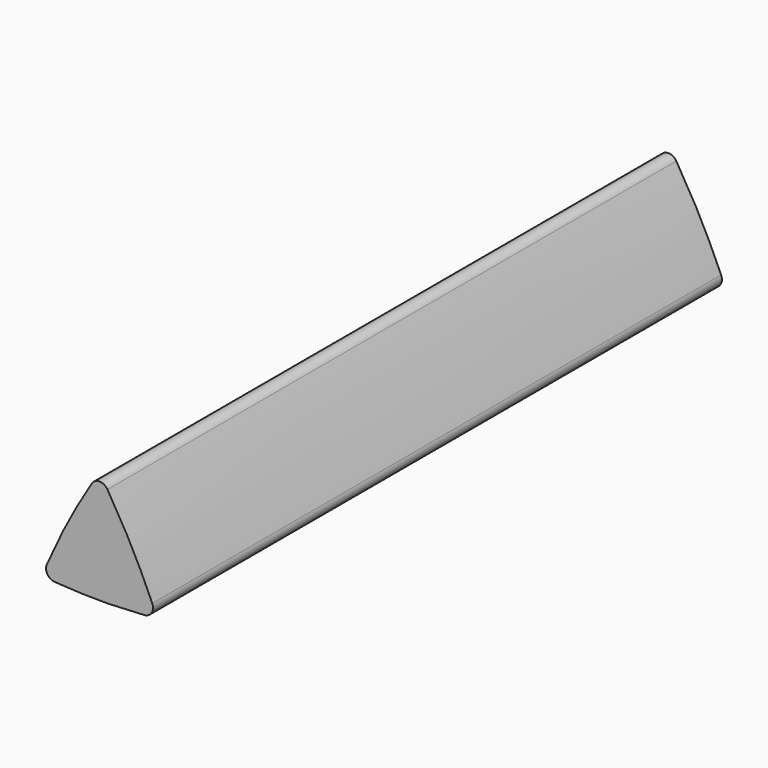
from build123d import *

# Parameters (mm, degrees)
F1_DEPTH = 38.6


with BuildPart() as f1:
    # F0 (on Front) → F1 (new body)
    with BuildSketch(Plane.XZ):
        with BuildLine():
            add(Edge.make_bspline(
                [(0.290014, 0.652725), (0.654464, 1.468686), (1.386119, 3.059577), (2.276955, 4.566897), (2.72267, 5.300609)],
                knots=[0.713428, 0.713428, 0.713428, 0.713428, 3.391626, 5.964573, 5.964573, 5.964573, 5.964573], degree=3))
            ThreePointArc((0.290014, 0.652725), (0.318085, 0.19109), (0.712737, -0.050041))
            add(Edge.make_bspline(
                [(5.587263, -0.050041), (4.774842, -0.1051), (3.15, -0.1949), (1.525158, -0.1051), (0.712737, -0.050041)],
                knots=[0.713545, 0.713545, 0.713545, 0.713545, 3.153569, 5.593594, 5.593594, 5.593594, 5.593594], degree=3))
            ThreePointArc((5.587263, -0.050041), (5.981915, 0.19109), (6.009986, 0.652725))
            add(Edge.make_bspline(
                [(3.57733, 5.300609), (4.023045, 4.566897), (4.913881, 3.059577), (5.645536, 1.468686), (6.009986, 0.652725)],
                knots=[0.818678, 0.818678, 0.818678, 0.818678, 3.391626, 6.069824, 6.069824, 6.069824, 6.069824], degree=3))
            ThreePointArc((3.57733, 5.300609), (3.15, 5.541014), (2.72267, 5.300609))
        make_face()
    extrude(amount=F1_DEPTH)


solid = f1.part
